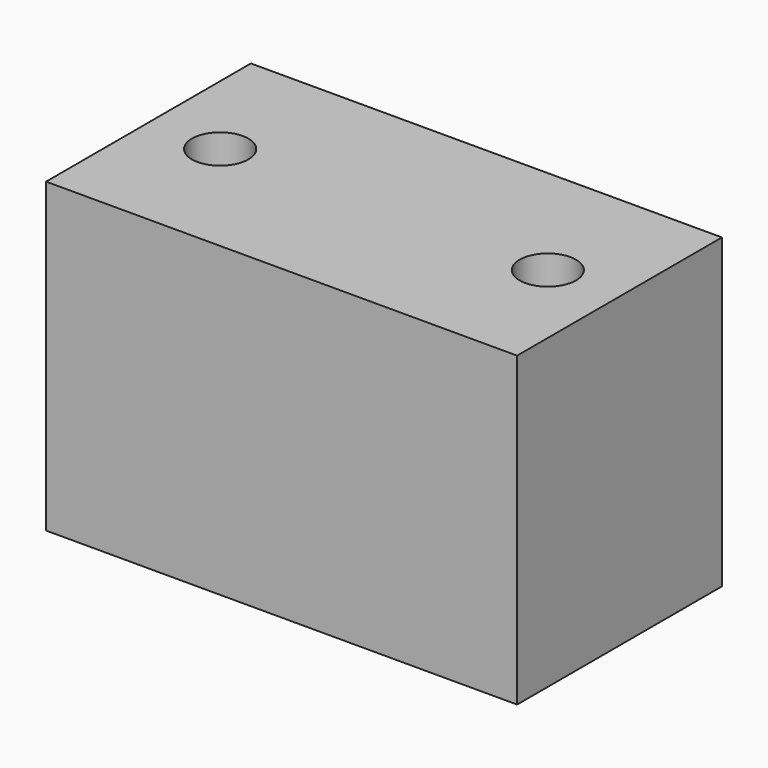
from build123d import *

# Parameters (mm, degrees)
F0_W     = 46
F0_H     = 25
F0_R     = 2.7559
F0_R_2   = 2.75
F1_DEPTH = 30


with BuildPart() as f1:
    # F0 (on Top) → F1 (new body)
    with BuildSketch(Plane.XY):
        Rectangle(F0_W, F0_H)
        with Locations((-15.99999, 0)):
            Circle(F0_R, mode=Mode.SUBTRACT)
        with Locations((16.00001, 0)):
            Circle(F0_R_2, mode=Mode.SUBTRACT)
    extrude(amount=F1_DEPTH)


solid = f1.part
